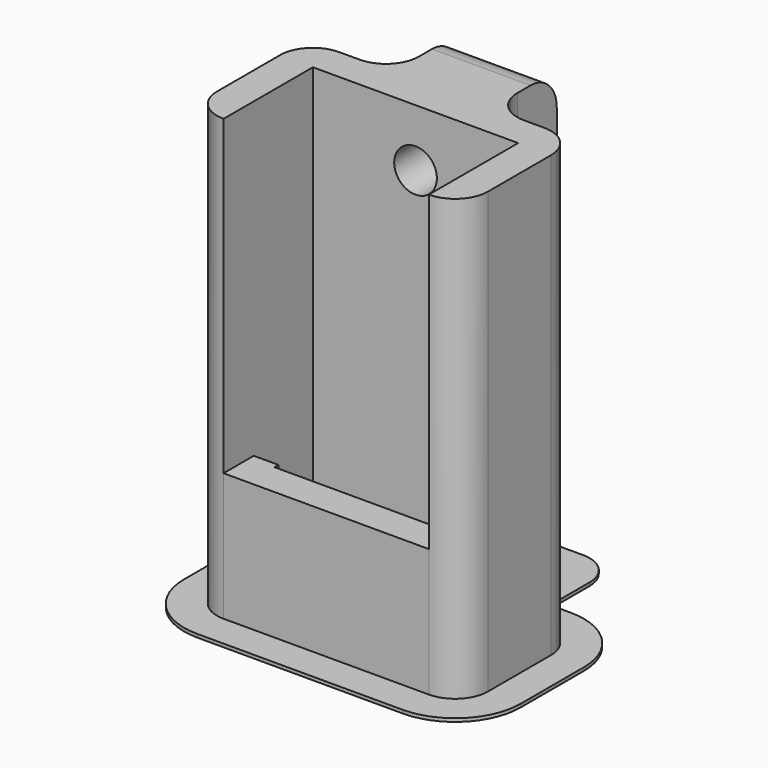
from build123d import *

# Parameters (mm, degrees)
F0_W      = 12.5
F0_H      = 4.8
F1_DEPTH  = 27
F2_W      = 12.5
F2_H      = 6.8
F3_DEPTH  = 19
F4_W      = 1.5
F4_H      = 0.3
F5_DEPTH  = 3
F6_R      = 1.3
F7_DEPTH  = 13.801
F8_R      = 2
F10_DEPTH = 0.2


with BuildPart() as f1:
    # F0 (on Top) → F1 (new body)
    with BuildSketch(Plane.XY):
        Polygon((3, 6.65), (-2.25, 6.65), (-2.25, -2.15), (14.25, -2.15), (14.25, 6.65), (9, 6.65), (9, 11.65), (3, 11.65), align=None)
        with Locations((6, 2.25)):
            Rectangle(F0_W, F0_H, mode=Mode.SUBTRACT)
    extrude(amount=F1_DEPTH)

    # F2 (on face) → F3 (cut)
    with BuildSketch(Plane.XY.offset(27)):
        with Locations((6, 1.25)):
            Rectangle(F2_W, F2_H)
    extrude(amount=-F3_DEPTH, mode=Mode.SUBTRACT)

    # F4 (on face) → F5 (join)
    with BuildSketch(Plane.XY.offset(8)):
        with Locations((0.5, 0)):
            Rectangle(F4_W, F4_H)
        with Locations((11.5, 0)):
            Rectangle(F4_W, F4_H)
    extrude(amount=-F5_DEPTH)

    # F6 (on face) → F7 (cut, through all)
    with BuildSketch(Plane(origin=(0, 11.65, 0), x_dir=(-1, 0, 0), z_dir=(0, 1, 0))):
        with Locations((-6, 23.5)):
            Circle(F6_R)
    extrude(amount=-F7_DEPTH, mode=Mode.SUBTRACT)

    # F8
    f8_edges = [f1.edges().sort_by_distance(p)[0] for p in [
        (9, 6.65, 13.5),
        (3, 6.65, 13.5),
        (-2.25, 6.65, 13.5),
        (-2.25, -2.15, 13.5),
        (14.25, 6.65, 13.5),
        (14.25, -2.15, 13.5),
        (6, 11.65, 27),
    ]]
    fillet(f8_edges, radius=F8_R)

    # F9 (on face) → F10 (join)
    with BuildSketch(Plane(origin=(0, 0, 0), x_dir=(1, 0, 0), z_dir=(0, 0, -1))):
        with BuildLine():
            ThreePointArc((-0.25, 4.15), (-3.0784271247, 2.9784271247), (-4.25, 0.15))
            Line((-4.25, 0.15), (-4.25, -4.65))
            ThreePointArc((-4.25, -4.65), (-3.0784271247, -7.4784271247), (-0.25, -8.65))
            Line((-0.25, -8.65), (1, -8.65))
            Line((1, -8.65), (1, -11.65))
            ThreePointArc((1, -11.65), (1.5857864376, -13.0642135624), (3, -13.65))
            Line((3, -13.65), (9, -13.65))
            ThreePointArc((9, -13.65), (10.4142135624, -13.0642135624), (11, -11.65))
            Line((11, -11.65), (11, -8.65))
            Line((11, -8.65), (12.25, -8.65))
            ThreePointArc((12.25, -8.65), (15.0784271247, -7.4784271247), (16.25, -4.65))
            Line((16.25, -4.65), (16.25, 0.15))
            ThreePointArc((16.25, 0.15), (15.0784271247, 2.9784271247), (12.25, 4.15))
            Line((12.25, 4.15), (-0.25, 4.15))
        make_face()
        with BuildLine():
            ThreePointArc((-0.25, -6.65), (-1.6642135624, -6.0642135624), (-2.25, -4.65))
            Line((-2.25, -4.65), (-2.25, 0.15))
            ThreePointArc((-2.25, 0.15), (-1.6642135624, 1.5642135624), (-0.25, 2.15))
            Line((-0.25, 2.15), (12.25, 2.15))
            ThreePointArc((12.25, 2.15), (13.6642135624, 1.5642135624), (14.25, 0.15))
            Line((14.25, 0.15), (14.25, -4.65))
            ThreePointArc((14.25, -4.65), (13.6642135624, -6.0642135624), (12.25, -6.65))
            Line((12.25, -6.65), (11, -6.65))
            ThreePointArc((11, -6.65), (9.5857864376, -7.2357864376), (9, -8.65))
            Line((9, -8.65), (9, -11.65))
            Line((9, -11.65), (3, -11.65))
            Line((3, -11.65), (3, -8.65))
            ThreePointArc((3, -8.65), (2.4142135624, -7.2357864376), (1, -6.65))
            Line((1, -6.65), (-0.25, -6.65))
        make_face(mode=Mode.SUBTRACT)
    extrude(amount=-F10_DEPTH)


solid = f1.part
